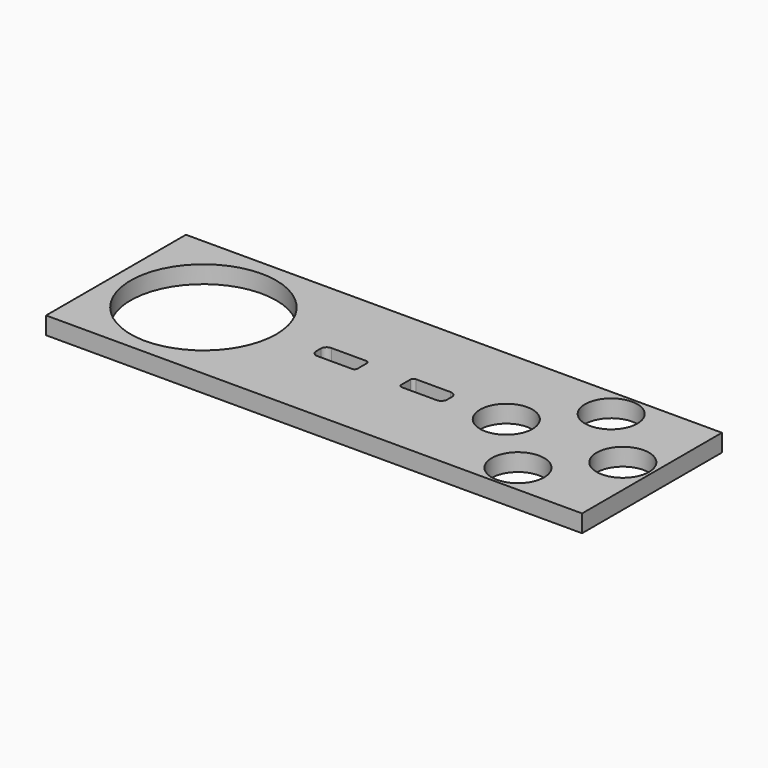
from build123d import *

# Parameters (mm, degrees)
F0_W     = 92
F0_H     = 30
F0_R     = 4.5
F0_R_2   = 12.5
F1_DEPTH = 3


with BuildPart() as f1:
    # F0 (on Top) → F1 (new body)
    with BuildSketch(Plane.XY):
        Rectangle(F0_W, F0_H)
        with Locations((30.99412, -10)):
            Circle(F0_R, mode=Mode.SUBTRACT)
        with Locations((-30.99412, 0)):
            Circle(F0_R_2, mode=Mode.SUBTRACT)
        with BuildLine():
            ThreePointArc((-3.75, -1), (-3.896447, -1.353553), (-4.25, -1.5))
            Line((-4.25, -1.5), (-10.25, -1.5))
            ThreePointArc((-10.25, -1.5), (-10.957107, -1.207107), (-11.25, -0.5))
            Line((-11.25, -0.5), (-11.25, 0.5))
            ThreePointArc((-11.25, 0.5), (-10.957107, 1.207107), (-10.25, 1.5))
            Line((-10.25, 1.5), (-4.25, 1.5))
            ThreePointArc((-4.25, 1.5), (-3.896447, 1.353553), (-3.75, 1))
            Line((-3.75, 1), (-3.75, -1))
        make_face(mode=Mode.SUBTRACT)
        with BuildLine():
            Line((10.25, -1.5), (4.25, -1.5))
            ThreePointArc((4.25, -1.5), (3.896447, -1.353553), (3.75, -1))
            Line((3.75, -1), (3.75, 1))
            ThreePointArc((3.75, 1), (3.896447, 1.353553), (4.25, 1.5))
            Line((4.25, 1.5), (10.25, 1.5))
            ThreePointArc((10.25, 1.5), (10.957107, 1.207107), (11.25, 0.5))
            Line((11.25, 0.5), (11.25, -0.5))
            ThreePointArc((11.25, -0.5), (10.957107, -1.207107), (10.25, -1.5))
        make_face(mode=Mode.SUBTRACT)
        with Locations((20.99412, 0)):
            Circle(F0_R, mode=Mode.SUBTRACT)
        with Locations((40.99412, 0)):
            Circle(F0_R, mode=Mode.SUBTRACT)
        with Locations((30.99412, 10)):
            Circle(F0_R, mode=Mode.SUBTRACT)
    extrude(amount=F1_DEPTH)


solid = f1.part
